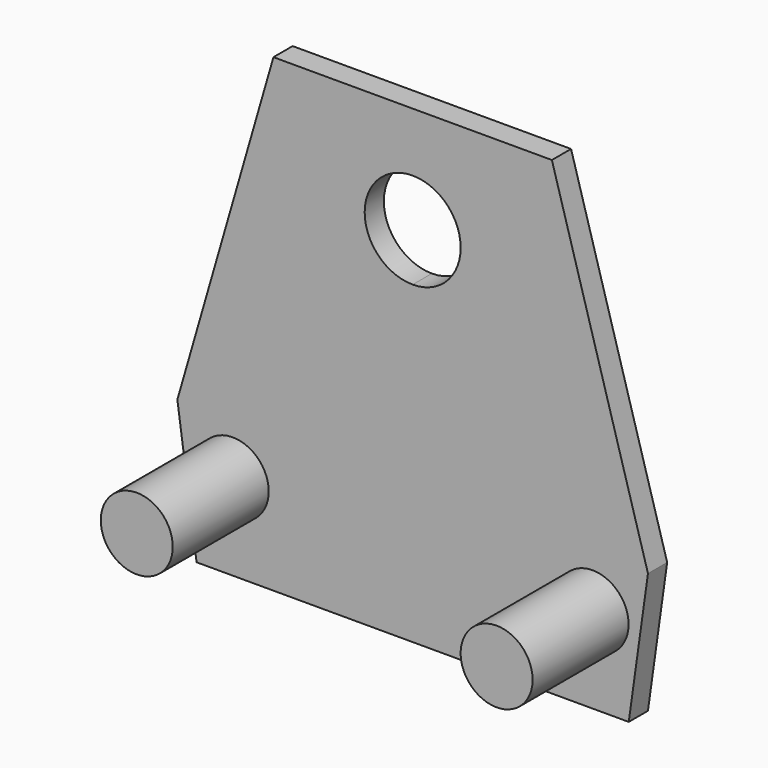
from build123d import *

# Parameters (mm, degrees)
F0_R     = 9.525
F1_DEPTH = 6.35
F2_DEPTH = 38.1


with BuildPart() as f1:
    # F0 (on Front) → F1 (new body)
    with BuildSketch(Plane.XZ):
        Polygon((-10.77674, 101.6), (-47.625, 101.6), (-84.47326, 101.6), (-109.903924, 13.530285), (-104.817793, -22.708416), (9.567793, -22.708416), (14.653924, 13.530285), align=None)
        with Locations((-95.25, 0)):
            Circle(F0_R, mode=Mode.SUBTRACT)
        Circle(F0_R, mode=Mode.SUBTRACT)
        with BuildLine():
            ThreePointArc((-34.925, 73.292352), (-38.644744, 64.312096), (-47.625, 60.592352))
            ThreePointArc((-47.625, 60.592352), (-60.325, 73.292352), (-47.625, 85.992352))
            ThreePointArc((-47.625, 85.992352), (-38.644744, 82.272608), (-34.925, 73.292352))
        make_face(mode=Mode.SUBTRACT)
    extrude(amount=F1_DEPTH)

    # F0 (on Front) → F2 (join)
    with BuildSketch(Plane.XZ):
        with Locations((-95.25, 0)):
            Circle(F0_R)
        Circle(F0_R)
    extrude(amount=F2_DEPTH)


solid = f1.part
